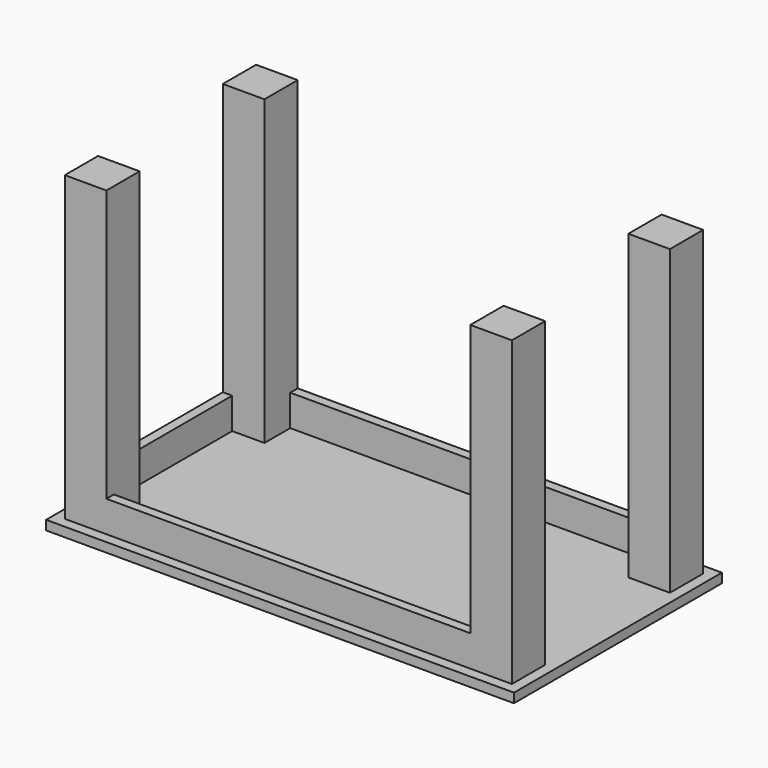
from build123d import *

# Parameters (mm, degrees)
SKETCH_W                = 900
SKETCH_H                = 500
PAD_DEPTH               = 18
SKETCH001_W             = 80
SKETCH001_H             = 80
PAD001_DEPTH            = 582
SKETCH001_MIRRORED_2_W  = 80
SKETCH001_MIRRORED_2_H  = 80
PAD001_MIRRORED_2_DEPTH = 582
SKETCH002_W             = 700
SKETCH002_H             = 18
PAD002_DEPTH            = 60
SKETCH003_W             = 18
SKETCH003_H             = 300
PAD003_DEPTH            = 60


with BuildPart() as part:
    # Sketch → Pad (new body)
    with BuildSketch(Plane.XY):
        Rectangle(SKETCH_W, SKETCH_H)
    extrude(amount=PAD_DEPTH)

    # Sketch001 → Pad001 (join)
    with BuildSketch(Plane.XY.offset(18)):
        with Locations((-390, 190)):
            Rectangle(SKETCH001_W, SKETCH001_H)
    pad001 = extrude(amount=PAD001_DEPTH)

    # Sketch001 Mirrored 2 → Pad001 Mirrored 2 (add)
    with BuildSketch(Plane(origin=(0, 0, 18), x_dir=(-1, 0, 0), z_dir=(0, 0, -1))):
        with Locations((-390, 190)):
            Rectangle(SKETCH001_MIRRORED_2_W, SKETCH001_MIRRORED_2_H)
    pad001_mirrored_2 = extrude(amount=-PAD001_MIRRORED_2_DEPTH)

    # Mirrored001: Pad001, Pad001 Mirrored 2 across Sketch001 H_Axis
    add(pad001.mirror(Plane(origin=(0, 0, 18), x_dir=(0, 0, 1), z_dir=(0, 1, 0))))
    add(pad001_mirrored_2.mirror(Plane(origin=(0, 0, 18), x_dir=(0, 0, 1), z_dir=(0, 1, 0))))

    # Sketch002 → Pad002 (join)
    with BuildSketch(Plane.XY.offset(18)):
        with Locations((0, 221)):
            Rectangle(SKETCH002_W, SKETCH002_H)
    pad002 = extrude(amount=PAD002_DEPTH)

    # Sketch003 → Pad003 (join)
    with BuildSketch(Plane.XY.offset(18)):
        with Locations((-421, 0)):
            Rectangle(SKETCH003_W, SKETCH003_H)
    extrude(amount=PAD003_DEPTH)

    # Mirrored003: Pad002 across Sketch002 H_Axis
    add(pad002.mirror(Plane(origin=(0, 0, 18), x_dir=(0, 0, 1), z_dir=(0, 1, 0))))


solid = part.part
